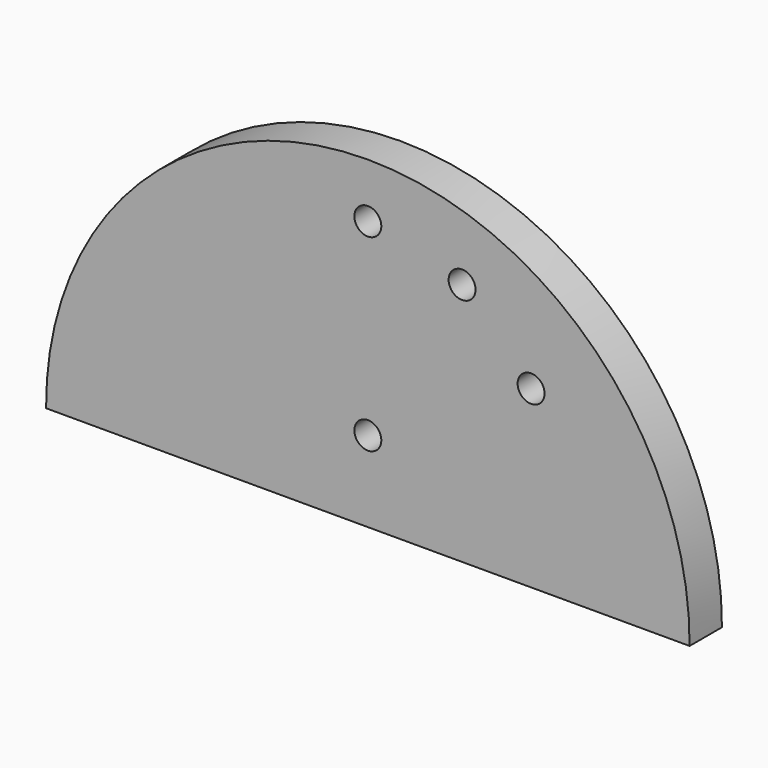
from build123d import *

# Parameters (mm, degrees)
F1_DEPTH = 4.7625
F3_D     = 6.35


with BuildPart() as f1:
    # F0 (on Front) → F1 (new body, symmetric)
    with BuildSketch(Plane.XZ):
        with BuildLine():
            ThreePointArc((75.875851, -0.433923), (0, 75.877092), (-75.875851, -0.433923))
            Line((-75.875851, -0.433923), (75.875851, -0.433923))
        make_face()
    extrude(amount=F1_DEPTH, both=True)

    # F3 (through all)
    with Locations(Plane.XZ.offset(4.7625)):
        with Locations((0, 18.616077), (38.494829, 40.841077), (22.225, 57.110906), (0, 63.066077)):
            Hole(F3_D / 2)


solid = f1.part
